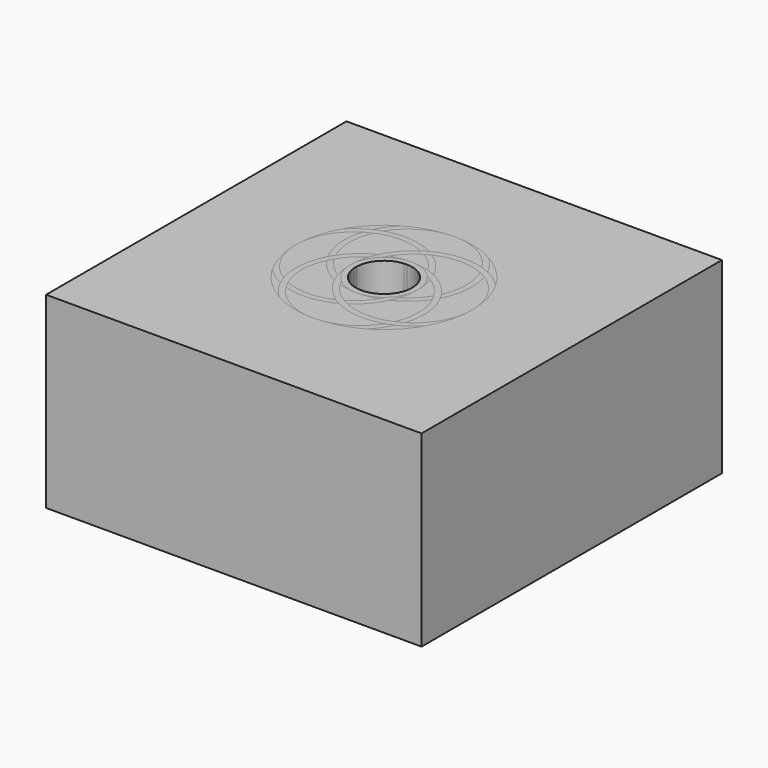
from build123d import *

# Parameters (mm, degrees)
F2_W     = 400
F2_H     = 400
F2_R     = 30
F3_DEPTH = 100
F6_R     = 68
F6_R_2   = 62
F7_DEPTH = 100
F8_COUNT = 4
F5_W     = 400
F5_H     = 400
F5_R     = 94
F9_DEPTH = 100
F5_R_2   = 36
F5_R_3   = 30


with BuildPart() as f3:
    # F2 (on Top) → F3 (new body, symmetric)
    with BuildSketch(Plane.XY):
        Rectangle(F2_W, F2_H)
        Circle(F2_R, mode=Mode.SUBTRACT)
    extrude(amount=F3_DEPTH, both=True)


with BuildPart() as f7:
    # F6 (on Top) → F7 (new body, symmetric)
    with BuildSketch(Plane.XY):
        with Locations((0, 32)):
            Circle(F6_R)
        with Locations((0, 32)):
            Circle(F6_R_2, mode=Mode.SUBTRACT)
    extrude(amount=F7_DEPTH, both=True)


with BuildPart() as f8_1:
    # F8: instance of F7
    add(f7.part.rotate(Axis((0, 0, 0.8408650756), (0, 0, 1)), 1 * 360 / F8_COUNT))


with BuildPart() as f8_2:
    # F8: instance of F7
    add(f7.part.rotate(Axis((0, 0, 0.8408650756), (0, 0, 1)), 2 * 360 / F8_COUNT))


with BuildPart() as f8_3:
    # F8: instance of F7
    add(f7.part.rotate(Axis((0, 0, 0.8408650756), (0, 0, 1)), 3 * 360 / F8_COUNT))


with BuildPart() as f9:
    # F5 (on Top) → F9 (new body, symmetric)
    with BuildSketch(Plane.XY):
        Rectangle(F5_W, F5_H)
        Circle(F5_R, mode=Mode.SUBTRACT)
    extrude(amount=F9_DEPTH, both=True)


with BuildPart() as f9b:
    # F5 (on Top) → F9, piece 2 (new body, symmetric)
    with BuildSketch(Plane.XY):
        Circle(F5_R_2)
        Circle(F5_R_3, mode=Mode.SUBTRACT)
    extrude(amount=F9_DEPTH, both=True)


solid = Compound([f3.part, f7.part, f8_1.part, f8_2.part, f8_3.part, f9.part, f9b.part])
